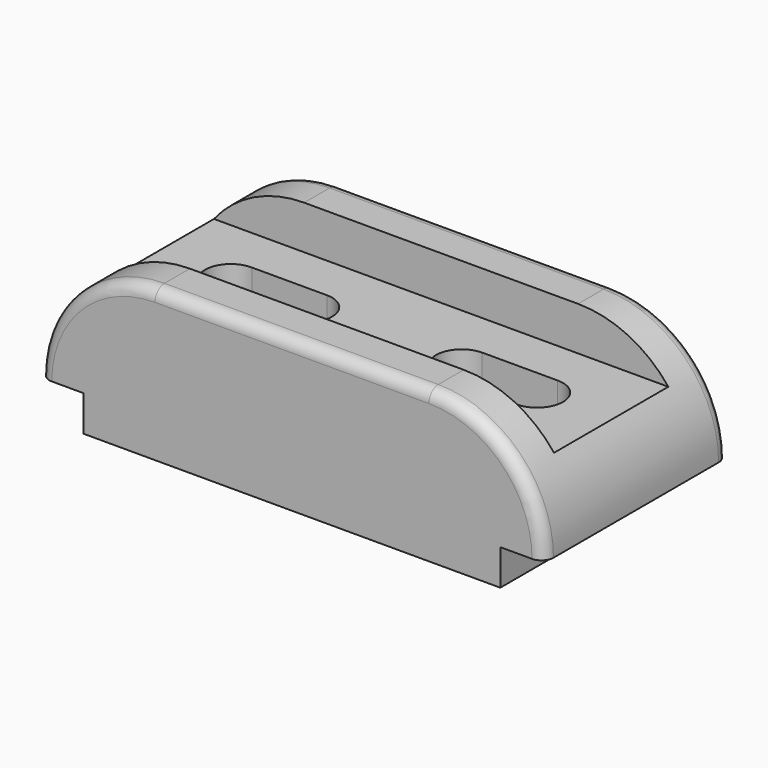
from build123d import *

# Parameters (mm, degrees)
F1_DEPTH = 58
F2_W     = 171.89188
F2_H     = 36
F3_DEPTH = 11
F5_DEPTH = 27.001
F6_R     = 3


with BuildPart() as f1:
    # F0 (on Front) → F1 (new body)
    with BuildSketch(Plane.XZ):
        with BuildLine():
            Line((34.5, 19), (-34.5, 19))
            ThreePointArc((-34.5, 19), (-55.006097, 10.506097), (-63.5, -10))
            Line((-63.5, -10), (-52.5, -10))
            Line((-52.5, -10), (-52.5, -19))
            Line((-52.5, -19), (52.5, -19))
            Line((52.5, -19), (52.5, -10))
            Line((52.5, -10), (63.5, -10))
            ThreePointArc((63.5, -10), (55.006097, 10.506097), (34.5, 19))
        make_face()
    extrude(amount=F1_DEPTH)

    # F2 (on face) → F3 (cut)
    with BuildSketch(Plane.XY.offset(19)):
        with Locations((0, -29)):
            Rectangle(F2_W, F2_H)
    extrude(amount=-F3_DEPTH, mode=Mode.SUBTRACT)

    # F4 (on face) → F5 (cut, through all)
    with BuildSketch(Plane.XY.offset(8)):
        with BuildLine():
            Line((-19.5, -22.500296), (-38.5, -22.500296))
            ThreePointArc((-38.5, -22.500296), (-45.087633, -28.955812), (-38.587781, -35.499704))
            Line((-38.587781, -35.499704), (-19.587781, -35.499704))
            ThreePointArc((-19.587781, -35.499704), (-13.087929, -29.043595), (-19.5, -22.500296))
        make_face()
        with BuildLine():
            Line((19.587781, -35.499704), (38.587781, -35.499704))
            ThreePointArc((38.587781, -35.499704), (45.087633, -28.955812), (38.5, -22.500296))
            Line((38.5, -22.500296), (19.5, -22.500296))
            ThreePointArc((19.5, -22.500296), (13.087929, -29.043595), (19.587781, -35.499704))
        make_face()
    extrude(amount=-F5_DEPTH, mode=Mode.SUBTRACT)

    # F6
    f6_edges = [f1.edges().sort_by_distance(p)[0] for p in [
        (0, -58, 19),
        (0, 0, 19),
    ]]
    fillet(f6_edges, radius=F6_R)


solid = f1.part
